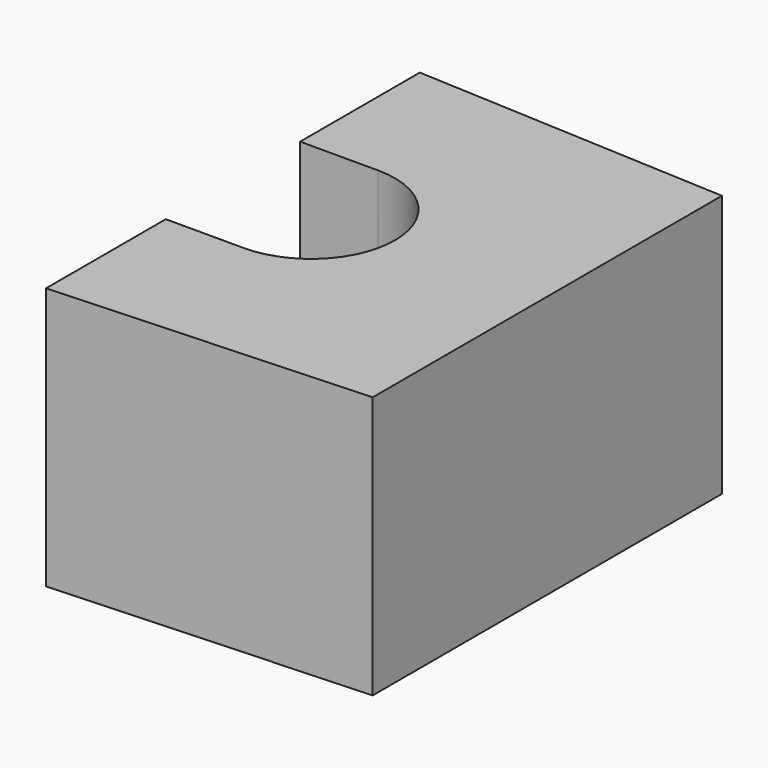
from build123d import *

# Parameters (mm, degrees)
F1_DEPTH = 25


with BuildPart() as f1:
    # F0 (on Top) → F1 (new body)
    with BuildSketch(Plane.XY):
        with BuildLine():
            ThreePointArc((1.863135, 8.365539), (9.863135, 0.365539), (1.863135, -7.634461))
            Line((1.863135, -7.634461), (-5.573545, -7.634461))
            Line((-5.573545, -7.634461), (-5.573545, -21.884736))
            Line((-5.573545, -21.884736), (24.369754, -20.425071))
            Line((24.369754, -20.425071), (24.369754, 21.156149))
            Line((24.369754, 21.156149), (-5.573545, 22.615814))
            Line((-5.573545, 22.615814), (-5.573545, 8.365539))
            Line((-5.573545, 8.365539), (1.863135, 8.365539))
        make_face()
    extrude(amount=F1_DEPTH)


solid = f1.part
